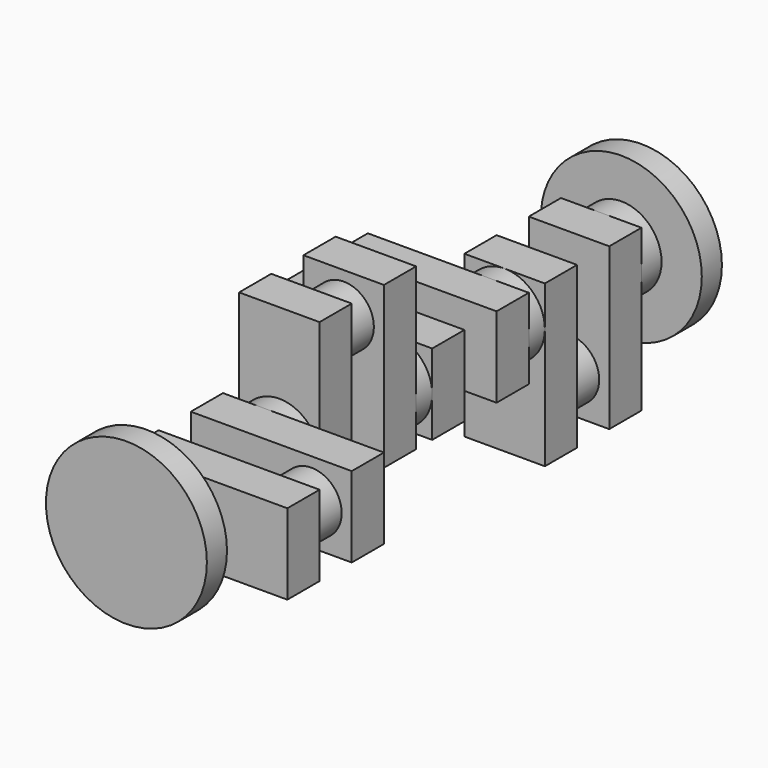
from build123d import *

# Parameters (mm, degrees)
F5_R      = 50.8
F6_DEPTH  = 15.875
F7_R      = 50.8
F8_DEPTH  = 15.875
F9_R      = 19.05
F10_DEPTH = 25.4
F11_R     = 19.05
F12_DEPTH = 25.4
F13_R     = 19.05
F14_DEPTH = 25.4
F15_R     = 19.05
F16_DEPTH = 25.4
F17_W     = 50.8
F17_H     = 101.6
F18_DEPTH = 25.4
F19_W     = 50.8
F19_H     = 101.6
F20_DEPTH = 25.4
F21_W     = 101.6
F21_H     = 50.8
F22_DEPTH = 25.4
F23_W     = 101.6
F23_H     = 50.8
F24_DEPTH = 25.4
F25_W     = 50.8
F25_H     = 101.6
F26_DEPTH = 25.4
F27_W     = 50.8
F27_H     = 101.6
F28_DEPTH = 25.4
F29_W     = 101.6
F29_H     = 50.8
F30_DEPTH = 25.4
F31_W     = 101.6
F31_H     = 50.8
F32_DEPTH = 25.4
F33_R     = 25.4
F34_DEPTH = 15.875
F35_R     = 25.4
F36_DEPTH = 12.7
F37_R     = 25.4
F38_DEPTH = 12.7
F39_R     = 25.4
F40_DEPTH = 12.7
F41_R     = 25.4
F42_DEPTH = 15.875


with BuildPart() as f6:
    # F5 (on offset) → F6 (new body)
    with BuildSketch(Plane.XZ.offset(-406.4)):
        Circle(F5_R)
    extrude(amount=F6_DEPTH)



with BuildPart() as f8:
    # F7 (on Front) → F8 (new body)
    with BuildSketch(Plane.XZ):
        Circle(F7_R)
    extrude(amount=-F8_DEPTH)



with BuildPart() as f10:
    # F9 (on offset) → F10 (new body)
    with BuildSketch(Plane.XZ.offset(-57.15)):
        with Locations((50.8, 0)):
            Circle(F9_R)
    extrude(amount=-F10_DEPTH)

    # F29 (on face) → F30 (join)
    with BuildSketch(Plane.XZ.offset(-57.15)):
        with Locations((25.4, 0)):
            Rectangle(F29_W, F29_H)
    extrude(amount=F30_DEPTH)

    # F31 (on face) → F32 (join)
    with BuildSketch(Plane(origin=(0, 82.55, 0), x_dir=(-1, 0, 0), z_dir=(0, 1, 0))):
        with Locations((-25.4, 0)):
            Rectangle(F31_W, F31_H)
    extrude(amount=F32_DEPTH)


with BuildPart() as f12:
    # F11 (on offset) → F12 (new body)
    with BuildSketch(Plane.XZ.offset(-146.05)):
        with Locations((0, 50.8)):
            Circle(F11_R)
    extrude(amount=-F12_DEPTH)

    # F25 (on face) → F26 (join)
    with BuildSketch(Plane.XZ.offset(-146.05)):
        with Locations((0, 25.4)):
            Rectangle(F25_W, F25_H)
    extrude(amount=F26_DEPTH)

    # F27 (on face) → F28 (join)
    with BuildSketch(Plane(origin=(0, 171.45, 0), x_dir=(-1, 0, 0), z_dir=(0, 1, 0))):
        with Locations((0, 25.4)):
            Rectangle(F27_W, F27_H)
    extrude(amount=F28_DEPTH)


with BuildPart() as f14:
    # F13 (on offset) → F14 (new body)
    with BuildSketch(Plane.XZ.offset(-234.95)):
        with Locations((-50.8, 0)):
            Circle(F13_R)
    extrude(amount=-F14_DEPTH)

    # F21 (on face) → F22 (join)
    with BuildSketch(Plane.XZ.offset(-234.95)):
        with Locations((-25.4, 0)):
            Rectangle(F21_W, F21_H)
    extrude(amount=F22_DEPTH)

    # F23 (on face) → F24 (join)
    with BuildSketch(Plane(origin=(0, 260.35, 0), x_dir=(-1, 0, 0), z_dir=(0, 1, 0))):
        with Locations((25.4, 0)):
            Rectangle(F23_W, F23_H)
    extrude(amount=F24_DEPTH)


with BuildPart() as f16:
    # F15 (on offset) → F16 (new body)
    with BuildSketch(Plane.XZ.offset(-323.85)):
        with Locations((0, -50.8)):
            Circle(F15_R)
    extrude(amount=-F16_DEPTH)

    # F17 (on face) → F18 (join)
    with BuildSketch(Plane.XZ.offset(-323.85)):
        with Locations((0, -25.4)):
            Rectangle(F17_W, F17_H)
    extrude(amount=F18_DEPTH)

    # F19 (on face) → F20 (join)
    with BuildSketch(Plane(origin=(0, 349.25, 0), x_dir=(-1, 0, 0), z_dir=(0, 1, 0))):
        with Locations((0, -25.4)):
            Rectangle(F19_W, F19_H)
    extrude(amount=F20_DEPTH)


with BuildPart() as f8_1:
    add(f8.part)

    add(f10.part)  # F34 merges F10
    # F33 (on face) → F34 (join, through all)
    with BuildSketch(Plane(origin=(0, 15.875, 0), x_dir=(-1, 0, 0), z_dir=(0, 1, 0))):
        Circle(F33_R)
    extrude(amount=F34_DEPTH)


    add(f12.part)  # F36 merges F12
    # F35 (on face) → F36 (join, through all)
    with BuildSketch(Plane.XZ.offset(-120.65)):
        Circle(F35_R)
    extrude(amount=F36_DEPTH)


    add(f14.part)  # F38 merges F14
    # F37 (on face) → F38 (join, through all)
    with BuildSketch(Plane.XZ.offset(-209.55)):
        Circle(F37_R)
    extrude(amount=F38_DEPTH)


    add(f16.part)  # F40 merges F16
    # F39 (on face) → F40 (join, through all)
    with BuildSketch(Plane.XZ.offset(-298.45)):
        Circle(F39_R)
    extrude(amount=F40_DEPTH)


with BuildPart() as f6_1:
    add(f6.part)

    add(f8_1.part)  # F42 merges F8
    # F41 (on face) → F42 (join, through all)
    with BuildSketch(Plane.XZ.offset(-390.525)):
        Circle(F41_R)
    extrude(amount=F42_DEPTH)


solid = f6_1.part
